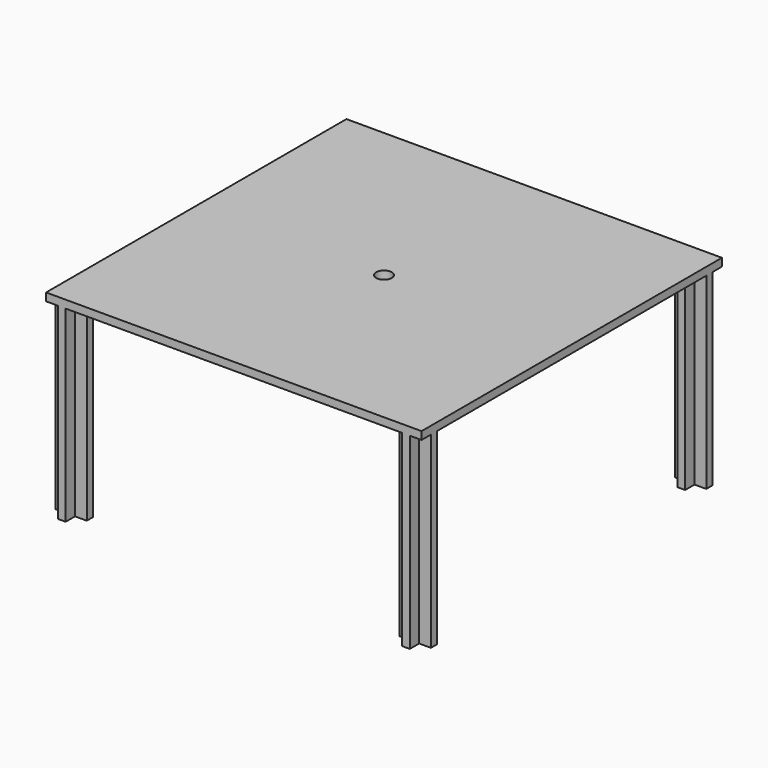
from build123d import *

# Parameters (mm, degrees)
F0_W     = 609.6
F0_H     = 609.6
F1_DEPTH = 6.35
F3_DEPTH = 304.8
F4_R     = 12.7
F5_DEPTH = 317.501


with BuildPart() as f1:
    # F0 (on Top) → F1 (new body, symmetric)
    with BuildSketch(Plane.XY):
        with Locations((304.8, 304.8)):
            Rectangle(F0_W, F0_H)
    extrude(amount=F1_DEPTH, both=True)

    # F2 (on face) → F3 (join)
    with BuildSketch(Plane(origin=(0, 0, -6.35), x_dir=(1, 0, 0), z_dir=(0, 0, -1))):
        Polygon((19.05, -19.05), (0, -19.05), (0, -31.75), (19.05, -31.75), (19.05, -50.8), (31.75, -50.8), (31.75, -31.75), (50.8, -31.75), (50.8, -19.05), (31.75, -19.05), (31.75, 0), (19.05, 0), align=None)
        Polygon((590.55, -50.8), (590.55, -31.75), (609.6, -31.75), (609.6, -19.05), (590.55, -19.05), (590.55, 0), (577.85, 0), (577.85, -19.05), (558.8, -19.05), (558.8, -31.75), (577.85, -31.75), (577.85, -50.8), align=None)
        Polygon((19.05, -590.55), (19.05, -609.6), (31.75, -609.6), (31.75, -590.55), (50.8, -590.55), (50.8, -577.85), (31.75, -577.85), (31.75, -558.8), (19.05, -558.8), (19.05, -577.85), (0, -577.85), (0, -590.55), align=None)
        Polygon((577.85, -609.6), (590.55, -609.6), (590.55, -590.55), (609.6, -590.55), (609.6, -577.85), (590.55, -577.85), (590.55, -558.8), (577.85, -558.8), (577.85, -577.85), (558.8, -577.85), (558.8, -590.55), (577.85, -590.55), align=None)
    extrude(amount=F3_DEPTH)

    # F4 (on face) → F5 (cut, through all)
    with BuildSketch(Plane.XY.offset(6.35)):
        with Locations((304.8, 304.8)):
            Circle(F4_R)
    extrude(amount=-F5_DEPTH, mode=Mode.SUBTRACT)


solid = f1.part
